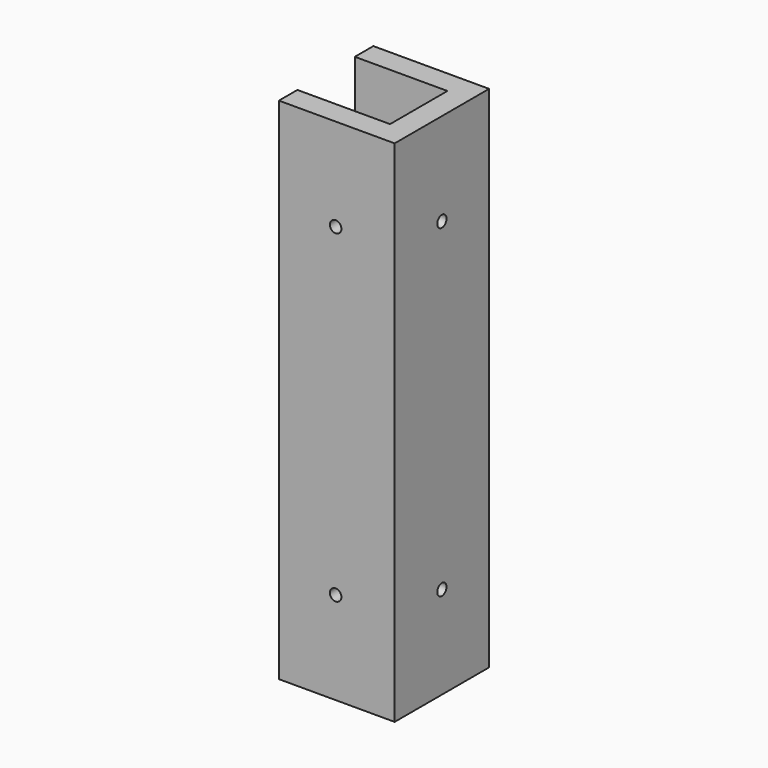
from build123d import *

# Parameters (mm, degrees)
F1_DEPTH = 139.7
F2_R     = 1.5875
F3_DEPTH = 31.751
F4_R     = 1.5875
F5_DEPTH = 32.386


with BuildPart() as f1:
    # F0 (on Top) → F1 (new body)
    with BuildSketch(Plane.XY):
        Polygon((12.7, -9.8425), (-12.7, -9.8425), (-12.7, -16.1925), (19.05, -16.1925), (19.05, 16.1925), (-12.7, 16.1925), (-12.7, 9.8425), (12.7, 9.8425), align=None)
    extrude(amount=F1_DEPTH)

    # F2 (on face) → F3 (cut, through all)
    with BuildSketch(Plane.YZ.offset(19.05)):
        with Locations((0, 114.3)):
            Circle(F2_R)
        with Locations((0, 25.4)):
            Circle(F2_R)
    extrude(amount=-F3_DEPTH, mode=Mode.SUBTRACT)

    # F4 (on face) → F5 (cut, through all)
    with BuildSketch(Plane.XZ.offset(16.1925)):
        with Locations((2.8575, 114.3)):
            Circle(F4_R)
        with Locations((2.8575, 25.4)):
            Circle(F4_R)
    extrude(amount=-F5_DEPTH, mode=Mode.SUBTRACT)


solid = f1.part
